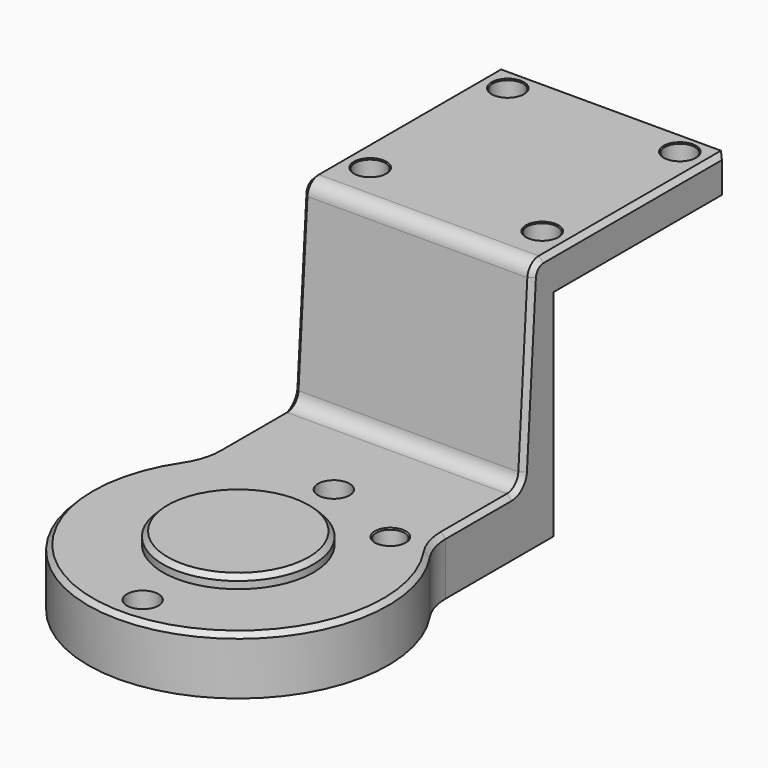
from build123d import *

# Parameters (mm, degrees)
SKETCH_R          = 31.4
PAD_DEPTH         = 12
SKETCH001_R       = 16.15
PAD001_DEPTH      = 2.5
SKETCH009_R       = 15.75
PAD004_DEPTH      = 2.5
PAD001_FACE4_R    = 16.15
POCKET_DEPTH      = 3.5
SKETCH002_R       = 3.3
POCKET001_DEPTH   = 20
CHAMFER_SIZE      = 1
CHAMFER001_SIZE   = 0.75
SKETCH003_R       = 3
POCKET002_DEPTH   = 12
CHAMFER003_SIZE   = 0.25
PAD005_DEPTH      = 12
PAD006_DEPTH      = 24
PAD006_DEPTH_BACK = 24
SKETCH012_R       = 2.1
POCKET003_DEPTH   = 9.420822
SKETCH013_R       = 3.2
POCKET004_DEPTH   = 5.35
FILLET_R          = 12
FILLET001_R       = 3
CHAMFER004_SIZE   = 1
CHAMFER005_SIZE   = 1
CHAMFER006_SIZE   = 0.2


with BuildPart() as part:
    # Sketch → Pad (new body)
    with BuildSketch(Plane.XY):
        Circle(SKETCH_R)
    extrude(amount=PAD_DEPTH)

    # Sketch001 (on Sketch) → Pad001 (join)
    with BuildSketch(Plane.XY):
        Circle(SKETCH001_R)
    extrude(amount=PAD001_DEPTH)

    # Sketch009 (on Face3 of Pad001) → Pad004 (join)
    with BuildSketch(Plane.XY.offset(12)):
        Circle(SKETCH009_R)
    extrude(amount=PAD004_DEPTH)

    # Pad001 Face4 → Pocket (cut)
    with BuildSketch(Plane(origin=(0, 0, 0), x_dir=(0, -1, 0), z_dir=(0, 0, -1))):
        Circle(PAD001_FACE4_R)
    extrude(amount=-POCKET_DEPTH, mode=Mode.SUBTRACT)

    # Sketch002 → Pocket001 (cut)
    with BuildSketch(Plane.XY):
        with Locations((0, 25)):
            Circle(SKETCH002_R)
        with Locations((0, -25)):
            Circle(SKETCH002_R)
    extrude(amount=POCKET001_DEPTH, mode=Mode.SUBTRACT)

    # Chamfer
    chamfer_edges = [part.edges().sort_by_distance(p)[0] for p in [
        (-15.75, 0, 14.5),
    ]]
    chamfer(chamfer_edges, length=CHAMFER_SIZE)

    # Chamfer001
    chamfer001_edges = [part.edges().sort_by_distance(p)[0] for p in [
        (-16.15, 0, 0),
    ]]
    chamfer(chamfer001_edges, length=CHAMFER001_SIZE)

    # Sketch003 (on Face7 of Chamfer001) → Pocket002 (cut)
    with BuildSketch(Plane.XY.offset(12)):
        with Locations((17.67767, 17.67767)):
            Circle(SKETCH003_R)
    extrude(amount=-POCKET002_DEPTH, mode=Mode.SUBTRACT)

    # Chamfer003
    chamfer003_edges = [part.edges().sort_by_distance(p)[0] for p in [
        (14.67767, 17.67767, 12),
        (14.67767, 17.67767, 0),
    ]]
    chamfer(chamfer003_edges, length=CHAMFER003_SIZE)

    # Sketch011 → Pad005 (join)
    with BuildSketch(Plane.XY):
        with BuildLine():
            Line((24, 20.247469), (24, 34.174057))
            Line((24, 34.174057), (-24, 34.174057))
            Line((-24, 34.174057), (-24, 20.247469))
            ThreePointArc((24, 20.247469), (0, 31.4), (-24, 20.247469))
        make_face()
    extrude(amount=PAD005_DEPTH)

    # Sketch010 → Pad006 (join, two sides)
    with BuildSketch(Plane.YZ) as pad006_sk:
        Polygon((34.020989, 0), (52.498643, 0), (52.498643, 45), (97.498643, 45), (97.498643, 52.420822), (47.04097, 52.420822), (44.319458, 12), (34.020989, 12), align=None)
    extrude(amount=PAD006_DEPTH)
    extrude(pad006_sk.sketch, amount=-PAD006_DEPTH_BACK)

    # Sketch012 (on Face31 of Pad006) → Pocket003 (cut)
    with BuildSketch(Plane(origin=(0, 0, 45), x_dir=(1, 0, 0), z_dir=(0, 0, -1))):
        with Locations((18, -92.99873)):
            Circle(SKETCH012_R)
        with Locations((-18, -92.99873)):
            Circle(SKETCH012_R)
        with Locations((-18, -56.99873)):
            Circle(SKETCH012_R)
        with Locations((18, -56.99873)):
            Circle(SKETCH012_R)
    extrude(amount=-POCKET003_DEPTH, mode=Mode.SUBTRACT)

    # Sketch013 (on Face29 of Pocket003) → Pocket004 (cut)
    with BuildSketch(Plane.XY.offset(52.420822)):
        with Locations((18, 93.000084)):
            Circle(SKETCH013_R)
        with Locations((-18, 93.000084)):
            Circle(SKETCH013_R)
        with Locations((-18, 57.000084)):
            Circle(SKETCH013_R)
        with Locations((18, 57.000084)):
            Circle(SKETCH013_R)
    extrude(amount=-POCKET004_DEPTH, mode=Mode.SUBTRACT)

    # Fillet
    fillet_edges = [part.edges().sort_by_distance(p)[0] for p in [
        (-24, 20.247469, 6),
        (24, 20.247469, 6),
    ]]
    fillet(fillet_edges, radius=FILLET_R)

    # Fillet001
    fillet001_edges = [part.edges().sort_by_distance(p)[0] for p in [
        (0, 44.319458, 12),
        (0, 47.04097, 52.420822),
    ]]
    fillet(fillet001_edges, radius=FILLET001_R)

    # Chamfer004
    chamfer004_edges = [part.edges().sort_by_distance(p)[0] for p in [
        (24, 29.130313, 12),
        (-24, 29.130313, 12),
    ]]
    chamfer(chamfer004_edges, length=CHAMFER004_SIZE)

    # Chamfer005
    chamfer005_edges = [part.edges().sort_by_distance(p)[0] for p in [
        (24, 97.498643, 48.210411),
        (-24, 97.498643, 48.210411),
    ]]
    chamfer(chamfer005_edges, length=CHAMFER005_SIZE)

    # Chamfer006
    chamfer006_edges = [part.edges().sort_by_distance(p)[0] for p in [
        (-21.2, 57.000084, 52.420822),
        (-21.2, 93.000084, 52.420822),
        (14.8, 93.000084, 52.420822),
        (14.8, 57.000084, 52.420822),
    ]]
    chamfer(chamfer006_edges, length=CHAMFER006_SIZE)


solid = part.part
